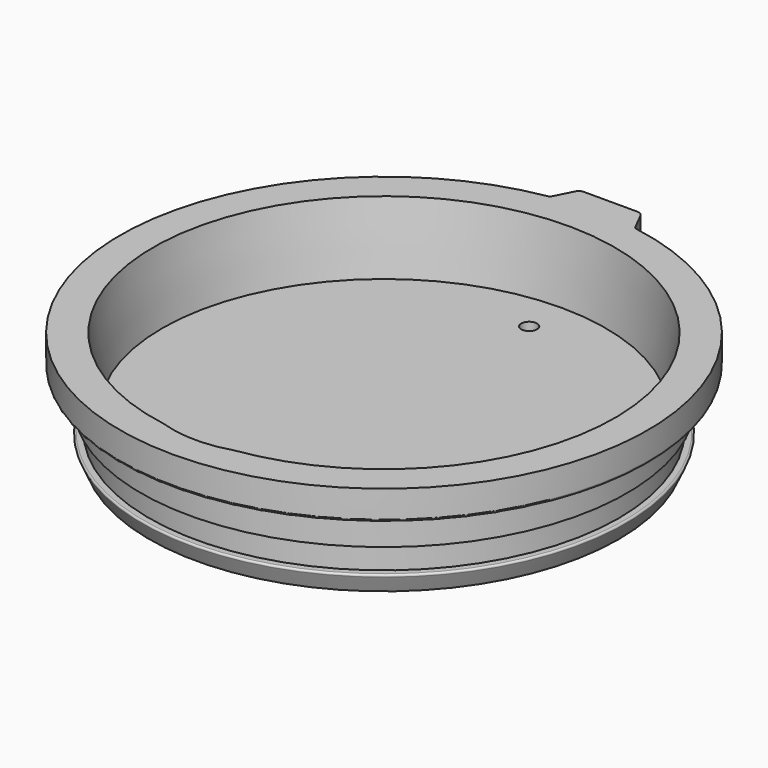
from build123d import *

# Parameters (mm, degrees)
F4_DEPTH = 2.794
F5_DEPTH = 25.4
F6_R     = 1.524
F7_DEPTH = 25.4
F9_DEPTH = 5.6388


with BuildPart() as f1:
    # F0 (on Front) → F1 (revolve)
    with BuildSketch(Plane.XZ):
        with BuildLine():
            Line((-42.70291, -13.129885), (-44.45, 0))
            Line((-44.45, 0), (-50.3936, 0))
            Line((-50.3936, 0), (-50.8, 0))
            Line((-50.8, 0), (-50.8, -0.4064))
            Line((-50.8, -0.4064), (-50.8, -5.238044))
            ThreePointArc((-50.8, -5.238044), (-50.680968, -5.525413), (-50.3936, -5.644444))
            Line((-50.3936, -5.644444), (-47.563638, -5.644444))
            ThreePointArc((-47.563638, -5.644444), (-47.006862, -5.875069), (-46.776238, -6.431844))
            Line((-46.776238, -6.431844), (-46.776238, -11.994444))
            Line((-46.776238, -11.994444), (-45.188738, -11.994444))
            Line((-45.188738, -11.994444), (-45.188738, -16.756944))
            Line((-45.188738, -16.756944), (-46.29761, -16.756944))
            ThreePointArc((-46.29761, -16.756944), (-46.558236, -16.898475), (-46.581447, -17.194142))
            Line((-46.581447, -17.194142), (-45.188738, -20.32))
            Line((-45.188738, -20.32), (-42.70291, -20.32))
            Line((-42.70291, -20.32), (-42.70291, -15.669885))
            Line((-42.70291, -15.669885), (0, -15.669885))
            Line((0, -15.669885), (0, -13.129885))
            Line((0, -13.129885), (-42.70291, -13.129885))
        make_face()
    revolve(axis=Axis((0, 0, -10.16), (0, 0, 1)))

    # F3 (on offset) → F4 (cut)
    with BuildSketch(Plane.XY.offset(-13.129885)):
        with BuildLine():
            Line((9.017678, -37.635088), (0, -37.596034))
            Line((0, -37.596034), (-9.717249, -37.55395))
            ThreePointArc((-9.717249, -37.55395), (-11.76304, -38.289364), (-12.85615, -40.168513))
            ThreePointArc((-12.85615, -40.168513), (-12.767446, -40.917369), (-12.276714, -41.489938))
            ThreePointArc((-12.276714, -41.489938), (0.021671, -44.985599), (12.224982, -41.171267))
            ThreePointArc((12.224982, -41.171267), (12.731825, -40.501367), (12.721155, -39.661401))
            ThreePointArc((12.721155, -39.661401), (11.852038, -38.366333), (10.471091, -37.641383))
            Line((10.471091, -37.641383), (9.017678, -37.635088))
        make_face()
    extrude(amount=-F4_DEPTH, mode=Mode.SUBTRACT)

    # F3 (on offset) → F5 (cut)
    with BuildSketch(Plane.XY.offset(-13.129885)):
        with BuildLine():
            ThreePointArc((1.524, 34.925), (-1.077631, 36.002631), (0, 33.401))
            ThreePointArc((0, 33.401), (1.077631, 33.847369), (1.524, 34.925))
        make_face()
        with BuildLine():
            Line((9.017678, -37.635088), (0, -37.596034))
            Line((0, -37.596034), (-9.717249, -37.55395))
            ThreePointArc((-9.717249, -37.55395), (-11.76304, -38.289364), (-12.85615, -40.168513))
            ThreePointArc((-12.85615, -40.168513), (-12.767446, -40.917369), (-12.276714, -41.489938))
            ThreePointArc((-12.276714, -41.489938), (0.021671, -44.985599), (12.224982, -41.171267))
            ThreePointArc((12.224982, -41.171267), (12.731825, -40.501367), (12.721155, -39.661401))
            ThreePointArc((12.721155, -39.661401), (11.852038, -38.366333), (10.471091, -37.641383))
            Line((10.471091, -37.641383), (9.017678, -37.635088))
        make_face()
        with BuildLine():
            ThreePointArc((10.471091, -37.641383), (9.74475, -37.55395), (9.017678, -37.635088))
            Line((9.017678, -37.635088), (10.471091, -37.641383))
        make_face()
    extrude(amount=F5_DEPTH, mode=Mode.SUBTRACT)

    # F6 (on offset) → F7 (cut)
    with BuildSketch(Plane.XY.offset(-13.129885)):
        with Locations((0, 34.925)):
            Circle(F6_R)
    extrude(amount=-F7_DEPTH, mode=Mode.SUBTRACT)

    # F8 (on Top) → F9 (join)
    with BuildSketch(Plane.XY):
        with BuildLine():
            ThreePointArc((-8.199207, 50.090913), (-4.113462, 50.596688), (0, 50.76566))
            Line((0, 50.76566), (0, 54.563351))
            Line((0, 54.563351), (-5.152237, 54.563351))
            ThreePointArc((-5.152237, 54.563351), (-5.816961, 54.375498), (-6.285039, 53.867511))
            Line((-6.285039, 53.867511), (-8.003992, 50.476065))
            Line((-8.003992, 50.476065), (-8.199207, 50.090913))
        make_face()
        with BuildLine():
            Line((0, 54.563351), (0, 50.76566))
            ThreePointArc((0, 50.76566), (4.113462, 50.596688), (8.199207, 50.090913))
            Line((8.199207, 50.090913), (8.003992, 50.476065))
            Line((8.003992, 50.476065), (6.285039, 53.867511))
            ThreePointArc((6.285039, 53.867511), (5.816961, 54.375498), (5.152237, 54.563351))
            Line((5.152237, 54.563351), (0, 54.563351))
        make_face()
        with BuildLine():
            Line((8.003992, 50.476065), (8.199207, 50.090913))
            Line((8.199207, 50.090913), (8.625197, 50.020322))
            ThreePointArc((8.625197, 50.020322), (8.260189, 50.174036), (8.003992, 50.476065))
        make_face()
        with BuildLine():
            Line((-8.625197, 50.020322), (-8.199207, 50.090913))
            Line((-8.199207, 50.090913), (-8.003992, 50.476065))
            ThreePointArc((-8.003992, 50.476065), (-8.260189, 50.174036), (-8.625197, 50.020322))
        make_face()
    extrude(amount=-F9_DEPTH)


solid = f1.part
